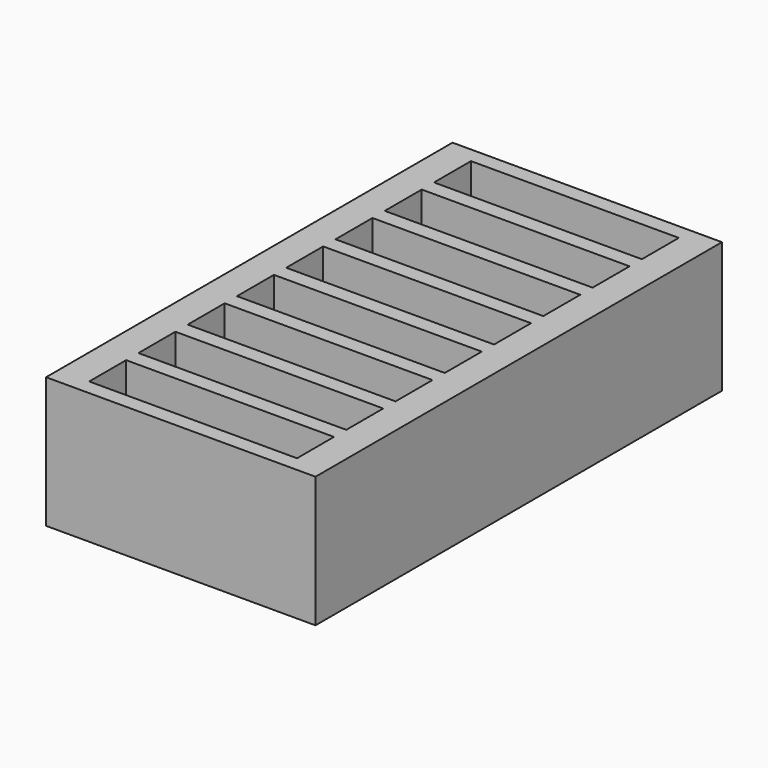
from build123d import *

# Parameters (mm, degrees)
F0_W     = 35
F0_H     = 66
F0_W_2   = 27
F0_H_2   = 6
F1_DEPTH = 15
F2_DEPTH = 2


with BuildPart() as f1:
    # F0 (on Top) → F1 (new body)
    with BuildSketch(Plane.XY):
        Rectangle(F0_W, F0_H)
        with Locations((0, -28)):
            Rectangle(F0_W_2, F0_H_2, mode=Mode.SUBTRACT)
        with Locations((0, -20)):
            Rectangle(F0_W_2, F0_H_2, mode=Mode.SUBTRACT)
        with Locations((0, -12)):
            Rectangle(F0_W_2, F0_H_2, mode=Mode.SUBTRACT)
        with Locations((0, -4)):
            Rectangle(F0_W_2, F0_H_2, mode=Mode.SUBTRACT)
        with Locations((0, 4)):
            Rectangle(F0_W_2, F0_H_2, mode=Mode.SUBTRACT)
        with Locations((0, 12)):
            Rectangle(F0_W_2, F0_H_2, mode=Mode.SUBTRACT)
        with Locations((0, 20)):
            Rectangle(F0_W_2, F0_H_2, mode=Mode.SUBTRACT)
        with Locations((0, 28)):
            Rectangle(F0_W_2, F0_H_2, mode=Mode.SUBTRACT)
    extrude(amount=F1_DEPTH)

    # F0 (on Top) → F2 (join)
    with BuildSketch(Plane.XY):
        Rectangle(F0_W, F0_H)
        with Locations((0, -28)):
            Rectangle(F0_W_2, F0_H_2, mode=Mode.SUBTRACT)
        with Locations((0, -20)):
            Rectangle(F0_W_2, F0_H_2, mode=Mode.SUBTRACT)
        with Locations((0, -12)):
            Rectangle(F0_W_2, F0_H_2, mode=Mode.SUBTRACT)
        with Locations((0, -4)):
            Rectangle(F0_W_2, F0_H_2, mode=Mode.SUBTRACT)
        with Locations((0, 4)):
            Rectangle(F0_W_2, F0_H_2, mode=Mode.SUBTRACT)
        with Locations((0, 12)):
            Rectangle(F0_W_2, F0_H_2, mode=Mode.SUBTRACT)
        with Locations((0, 20)):
            Rectangle(F0_W_2, F0_H_2, mode=Mode.SUBTRACT)
        with Locations((0, 28)):
            Rectangle(F0_W_2, F0_H_2, mode=Mode.SUBTRACT)
        with Locations((0, 28)):
            Rectangle(F0_W_2, F0_H_2)
        with Locations((0, 20)):
            Rectangle(F0_W_2, F0_H_2)
        with Locations((0, 12)):
            Rectangle(F0_W_2, F0_H_2)
        with Locations((0, 4)):
            Rectangle(F0_W_2, F0_H_2)
        with Locations((0, -4)):
            Rectangle(F0_W_2, F0_H_2)
        with Locations((0, -12)):
            Rectangle(F0_W_2, F0_H_2)
        with Locations((0, -20)):
            Rectangle(F0_W_2, F0_H_2)
        with Locations((0, -28)):
            Rectangle(F0_W_2, F0_H_2)
    extrude(amount=-F2_DEPTH)


solid = f1.part
